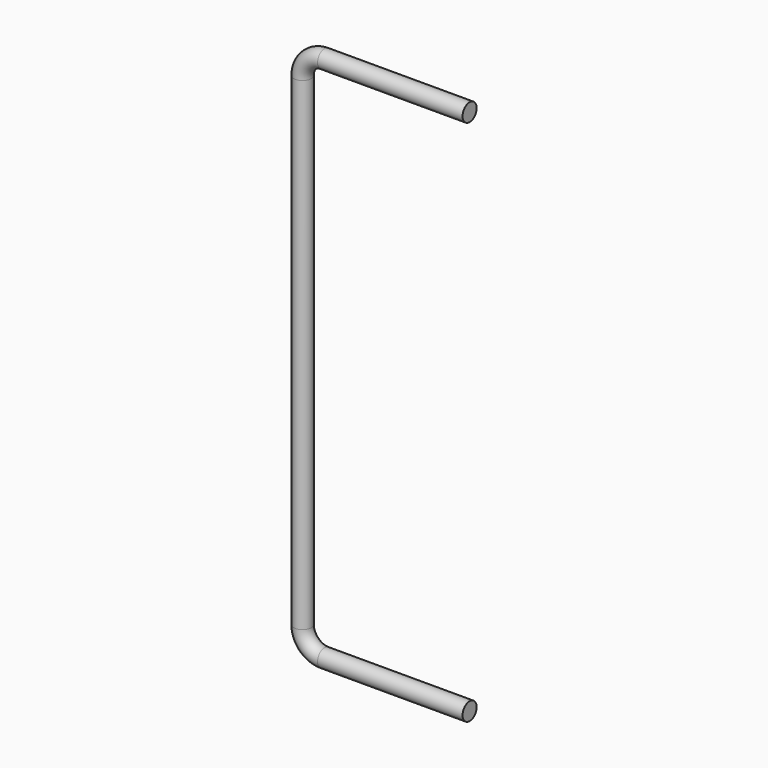
from build123d import *

# Parameters (mm, degrees)
F1_R = 2


with BuildPart() as f2:
    # F2: sweep along a path in F0
    with BuildLine(Plane.XZ) as f2_path:
        Line((0, 0), (-33, 0))
        ThreePointArc((-33, 0), (-36.5355339059, 1.4644660941), (-38, 5))
        Line((-38, 5), (-38, 115))
        ThreePointArc((-38, 115), (-36.5355339059, 118.5355339059), (-33, 120))
        Line((-33, 120), (0, 120))
    # F1 (on Right) → F2 (sweep)
    with BuildSketch(Plane.YZ):
        Circle(F1_R)
    sweep(path=f2_path.line)


solid = f2.part
